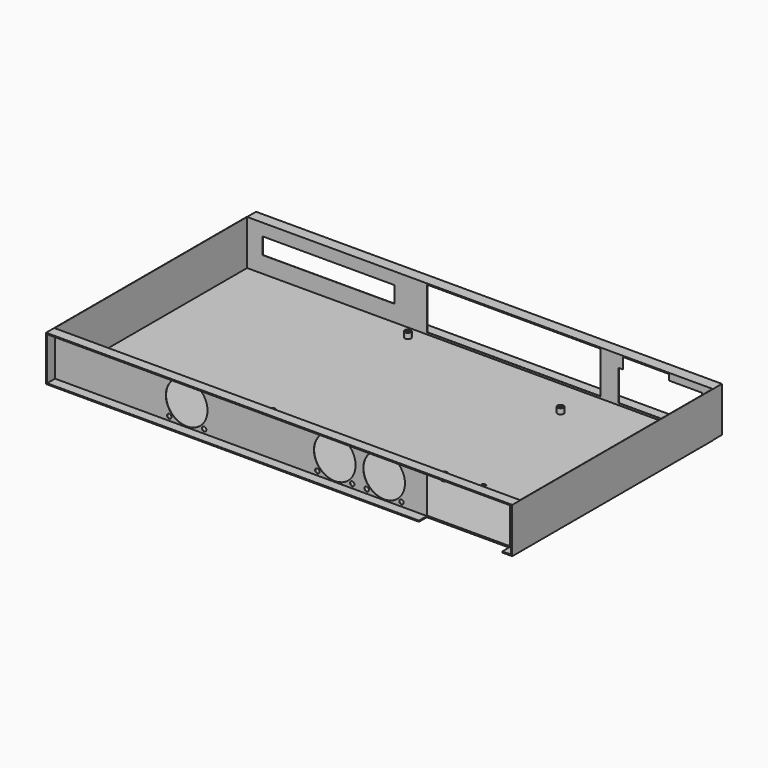
from build123d import *

# Parameters (mm, degrees)
F0_W      = 425
F0_H      = 220
F0_W_2    = 424.5
F0_H_2    = 219.5
F1_DEPTH  = 0.25
F2_DEPTH  = 41
F3_R      = 19
F3_W      = 76
F3_H      = 36
F3_R_2    = 2
F5_DEPTH  = 1
F4_W      = 158
F4_H      = 38.25
F4_W_2    = 120
F4_H_2    = 15
F6_DEPTH  = 1
F8_DEPTH  = 9
F9_R      = 2.75
F9_R_2    = 1.5
F10_DEPTH = 5
F11_W     = 424.75
F11_H     = 41
F11_W_2   = 422.750026226
F11_H_2   = 39.000026226
F12_DEPTH = 10
F13_R     = 2
F14_DEPTH = 0.25


with BuildPart() as f1:
    # F0 (on Top) → F1 (new body)
    with BuildSketch(Plane.XY):
        with Locations((212.25, 110)):
            Rectangle(F0_W, F0_H)
        with Locations((212.25, 110)):
            Rectangle(F0_W_2, F0_H_2, mode=Mode.SUBTRACT)
        with Locations((212.25, 110)):
            Rectangle(F0_W_2, F0_H_2)
    extrude(amount=-F1_DEPTH)

    # F0 (on Top) → F2 (join)
    with BuildSketch(Plane.XY):
        with Locations((212.25, 110)):
            Rectangle(F0_W, F0_H)
        with Locations((212.25, 110)):
            Rectangle(F0_W_2, F0_H_2, mode=Mode.SUBTRACT)
    extrude(amount=F2_DEPTH)

    # F3 (on face) → F5 (cut)
    with BuildSketch(Plane.XZ):
        with Locations((120.75, 20.375)):
            Circle(F3_R)
        with Locations((255.75, 20.375)):
            Circle(F3_R)
        with Locations((300.75, 20.375)):
            Circle(F3_R)
        with Locations((377.75, 19)):
            Rectangle(F3_W, F3_H)
        with Locations((104.8400974233, 36.2849025767)):
            Circle(F3_R_2)
        with Locations((104.8400974233, 4.4650974233)):
            Circle(F3_R_2)
        with Locations((271.6599025767, 36.2849025767)):
            Circle(F3_R_2)
        with Locations((271.6599025767, 4.4650974233)):
            Circle(F3_R_2)
        with Locations((136.6599025767, 36.2849025767)):
            Circle(F3_R_2)
        with Locations((136.6599025767, 4.4650974233)):
            Circle(F3_R_2)
        with Locations((239.8400974233, 36.2849025767)):
            Circle(F3_R_2)
        with Locations((239.8400974233, 4.4650974233)):
            Circle(F3_R_2)
        with Locations((284.8400974233, 36.2849025767)):
            Circle(F3_R_2)
        with Locations((284.8400974233, 4.4650974233)):
            Circle(F3_R_2)
        with Locations((316.6599025767, 36.2849025767)):
            Circle(F3_R_2)
        with Locations((316.6599025767, 4.4650974233)):
            Circle(F3_R_2)
    extrude(amount=-F5_DEPTH, mode=Mode.SUBTRACT)

    # F4 (on face) → F6 (cut)
    with BuildSketch(Plane(origin=(0, 220, 0), x_dir=(-1, 0, 0), z_dir=(0, 1, 0))):
        Polygon((-384.75, 34.75), (-414.75, 34.75), (-414.75, 1.75), (-338.75, 1.75), (-338.75, 30), (-342.75, 30), (-342.75, 40), (-384.75, 40), align=None)
        with Locations((-243.25, 20.875)):
            Rectangle(F4_W, F4_H)
        with Locations((-74.25, 22.5)):
            Rectangle(F4_W_2, F4_H_2)
    extrude(amount=-F6_DEPTH, mode=Mode.SUBTRACT)

    # F7 (on face) → F8 (join)
    with BuildSketch(Plane.XZ):
        Polygon((424.75, 41), (-0.25, 41), (-0.25, -0.25), (339.75, -0.25), (339.75, 0.7500000065), (0.7500000065, 0.7500000065), (0.7500000065, 39.9999999935), (423.7499999935, 39.9999999935), (423.7499999935, 0.7500000065), (415.75, 0.7500000065), (415.75, -0.25), (424.75, -0.25), align=None)
    extrude(amount=F8_DEPTH)

    # F9 (on face) → F10 (join)
    with BuildSketch(Plane.XY):
        with Locations((156.25, 207.75)):
            Circle(F9_R)
        with Locations((156.25, 207.75)):
            Circle(F9_R_2, mode=Mode.SUBTRACT)
        with Locations((313.73, 184.89)):
            Circle(F9_R)
        with Locations((313.73, 184.89)):
            Circle(F9_R_2, mode=Mode.SUBTRACT)
        with Locations((156.25, 52.81)):
            Circle(F9_R)
        with Locations((156.25, 52.81)):
            Circle(F9_R_2, mode=Mode.SUBTRACT)
        with Locations((313.73, 52.81)):
            Circle(F9_R)
        with Locations((313.73, 52.81)):
            Circle(F9_R_2, mode=Mode.SUBTRACT)
    extrude(amount=F10_DEPTH)

    # F11 (on face) → F12 (join)
    with BuildSketch(Plane(origin=(0, 220, 0), x_dir=(-1, 0, 0), z_dir=(0, 1, 0))):
        with Locations((-212.375, 20.5)):
            Rectangle(F11_W, F11_H)
        with Locations((-212.375, 20.5)):
            Rectangle(F11_W_2, F11_H_2, mode=Mode.SUBTRACT)
    extrude(amount=F12_DEPTH)

    # F13 (on face) → F14 (cut, through all)
    with BuildSketch(Plane.XY):
        with Locations((340.75, 63.25)):
            Circle(F13_R)
        with Locations((411.75, 63.25)):
            Circle(F13_R)
    extrude(amount=-F14_DEPTH, mode=Mode.SUBTRACT)


solid = f1.part
